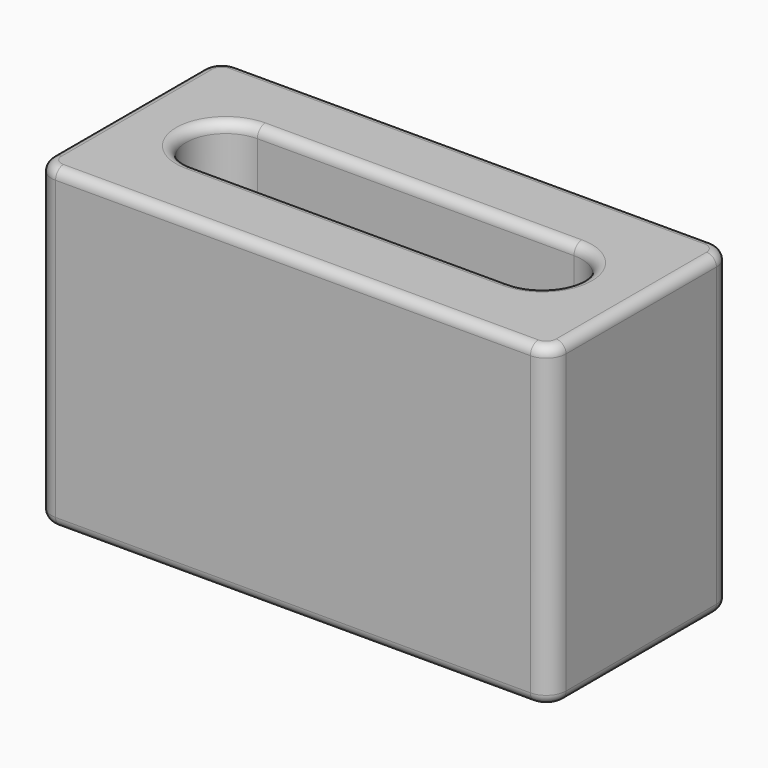
from build123d import *

# Parameters (mm, degrees)
SKETCH_W     = 260
SKETCH_H     = 115
PAD_DEPTH    = 160
POCKET_DEPTH = 160.001
FILLET_R     = 10
FILLET001_R  = 5


with BuildPart() as part:
    # Sketch → Pad (new body)
    with BuildSketch(Plane.XY):
        with Locations((130, 57.5)):
            Rectangle(SKETCH_W, SKETCH_H)
    extrude(amount=PAD_DEPTH)

    # Sketch001 → Pocket (cut, through all)
    with BuildSketch(Plane.XY.offset(160)):
        with BuildLine():
            ThreePointArc((50, 77.5), (30, 57.5), (50, 37.5))
            Line((50, 37.5), (210, 37.5))
            ThreePointArc((210, 37.5), (230, 57.5), (210, 77.5))
            Line((50, 77.5), (210, 77.5))
        make_face()
    extrude(amount=-POCKET_DEPTH, mode=Mode.SUBTRACT)

    # Fillet
    fillet_edges = [part.edges().sort_by_distance(p)[0] for p in [
        (0, 0, 80),
        (0, 115, 80),
        (260, 0, 80),
        (260, 115, 80),
    ]]
    fillet(fillet_edges, radius=FILLET_R)

    # Fillet001
    fillet001_edges = [part.edges().sort_by_distance(p)[0] for p in [
        (130, 0, 0),
        (2.928932, 2.928932, 0),
        (257.071068, 2.928932, 0),
        (0, 57.5, 0),
        (260, 57.5, 0),
        (2.928932, 112.071068, 0),
        (257.071068, 112.071068, 0),
        (130, 115, 0),
        (130, 37.5, 0),
        (30, 57.5, 0),
        (130, 77.5, 0),
        (230, 57.5, 0),
        (130, 0, 160),
        (2.928932, 2.928932, 160),
        (257.071068, 2.928932, 160),
        (0, 57.5, 160),
        (260, 57.5, 160),
        (2.928932, 112.071068, 160),
        (257.071068, 112.071068, 160),
        (130, 115, 160),
        (130, 77.5, 160),
        (230, 57.5, 160),
        (130, 37.5, 160),
        (30, 57.5, 160),
    ]]
    fillet(fillet001_edges, radius=FILLET001_R)


solid = part.part
